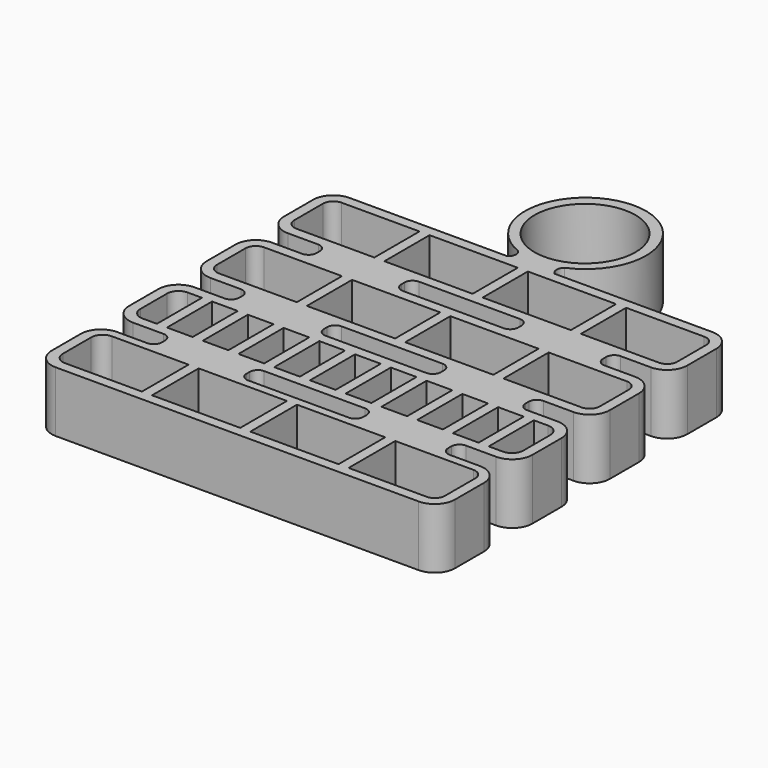
from build123d import *

# Parameters (mm, degrees)
PAD_DEPTH       = 15
SKETCH001_R     = 12.5
SKETCH001_W     = 21.875
SKETCH001_H     = 14.4596633146
SKETCH001_W_2   = 21.8750001493
SKETCH001_H_2   = 14.003631
SKETCH001_W_3   = 21.8698292402
SKETCH001_H_3   = 14.0029334024
SKETCH001_W_4   = 6.3643366819
SKETCH001_H_4   = 13.9871606597
POCKET_DEPTH    = 15.001
SKETCH002_W     = 20
SKETCH002_H     = 2.0403369997
SKETCH002_H_2   = 2.506032
POCKET001_DEPTH = 3


with BuildPart() as part:
    # Sketch → Pad (new body)
    with BuildSketch(Plane.XY):
        with BuildLine():
            Line((-50, 14.0000003144), (-50, 5))
            ThreePointArc((-50, 5), (-48.5355339059, 1.4644660941), (-45, 0))
            Line((-45, 0), (45, 0))
            ThreePointArc((45, 0), (48.5355339059, 1.4644660941), (50, 5))
            Line((50, 5), (50, 14))
            ThreePointArc((50, 14), (48.5355339059, 17.5355339059), (45, 19))
            Line((45, 19), (37.5, 19))
            ThreePointArc((35.5, 21), (36.0857864376, 19.5857864376), (37.5, 19))
            Line((35.5, 21), (35.5, 22))
            ThreePointArc((37.5, 24), (36.0857864376, 23.4142135624), (35.5, 22))
            Line((37.5, 24), (45, 24))
            ThreePointArc((45, 24), (48.5355339059, 25.4644660941), (50, 29))
            Line((50, 29), (50, 38))
            ThreePointArc((50, 38), (48.5355339059, 41.5355339059), (45, 43))
            Line((45, 43), (37.5, 43))
            ThreePointArc((35.5, 45), (36.0857864376, 43.5857864376), (37.5, 43))
            Line((35.5, 45), (35.5, 46))
            ThreePointArc((37.5, 48), (36.0857864376, 47.4142135624), (35.5, 46))
            Line((37.5, 48), (45, 48))
            ThreePointArc((45, 48), (48.5355339059, 49.4644660941), (50, 53))
            Line((50, 53), (50, 62))
            ThreePointArc((50, 62), (48.5355339059, 65.5355339059), (45, 67))
            Line((45, 67), (37.5, 67))
            ThreePointArc((35.5, 69), (36.0857864376, 67.5857864376), (37.5, 67))
            Line((35.5, 69), (35.5, 70))
            ThreePointArc((37.5, 72), (36.0857864376, 71.4142135624), (35.5, 70))
            Line((37.5, 72), (45, 72))
            ThreePointArc((45, 72), (48.5355339059, 73.4644660941), (50, 77))
            Line((50, 77), (50, 86))
            ThreePointArc((50, 86), (48.5355339059, 89.5355339059), (45, 91))
            Line((45, 91), (5.8692560091, 91))
            ThreePointArc((5.8472780237, 94.1591058983), (5.1418427518, 92.5745687661), (5.8692560091, 91))
            ThreePointArc((5.8472780237, 94.1591058983), (-0.1235255736, 122.9719726625), (-5.6189853126, 94.0646775793))
            ThreePointArc((-5.8228119759, 91.0319550623), (-4.9950585159, 92.4995332321), (-5.6189853126, 94.0646775793))
            Line((-5.8228119759, 91.0319550623), (-45, 91.0319550623))
            ThreePointArc((-45, 91.0319550623), (-48.5355339059, 89.5674889682), (-50, 86.0319550623))
            Line((-50, 86.0319550623), (-50, 77))
            ThreePointArc((-50, 77), (-48.5355339059, 73.4644660941), (-45, 72))
            Line((-45, 72), (-37.5, 72))
            ThreePointArc((-35.5, 70), (-36.0857864376, 71.4142135624), (-37.5, 72))
            Line((-35.5, 69), (-35.5, 70))
            ThreePointArc((-37.5, 67), (-36.0857864376, 67.5857864376), (-35.5, 69))
            Line((-37.5, 67), (-45, 67))
            ThreePointArc((-45, 67), (-48.5355339059, 65.5355339059), (-50, 62))
            Line((-50, 62), (-50, 53))
            ThreePointArc((-50, 53), (-48.5355339059, 49.4644660941), (-45, 48))
            Line((-45, 48), (-37.5, 48))
            ThreePointArc((-35.5, 46), (-36.0857864376, 47.4142135624), (-37.5, 48))
            Line((-35.5, 45.000000104), (-35.5, 46))
            ThreePointArc((-37.5, 43.000000104), (-36.0857864376, 43.5857865416), (-35.5, 45.000000104))
            Line((-37.5, 43.000000104), (-45, 43.000000104))
            ThreePointArc((-45, 43.000000104), (-48.5355339059, 41.5355340099), (-50, 38.000000104))
            Line((-50, 38.000000104), (-50, 29))
            ThreePointArc((-50, 29), (-48.5355339059, 25.4644660941), (-45, 24))
            Line((-45, 24), (-37.5, 24))
            ThreePointArc((-35.5, 22), (-36.0857864376, 23.4142135624), (-37.5, 24))
            Line((-35.5, 21.0000003144), (-35.5, 22))
            ThreePointArc((-37.5, 19.0000003144), (-36.0857864376, 19.585786752), (-35.5, 21.0000003144))
            Line((-37.5, 19.0000003144), (-45, 19.0000003144))
            ThreePointArc((-45, 19.0000003144), (-48.5355339059, 17.5355342203), (-50, 14.0000003144))
        make_face()
        with BuildLine():
            Line((-14.5, 21.0000003144), (-14.5, 22))
            ThreePointArc((-12.5, 24), (-13.9142135624, 23.4142135624), (-14.5, 22))
            Line((-12.5, 24), (12.5, 24))
            ThreePointArc((14.5, 22), (13.9142135624, 23.4142135624), (12.5, 24))
            Line((14.5, 21.0000003144), (14.5, 22))
            ThreePointArc((12.5, 19.0000003144), (13.9142135624, 19.585786752), (14.5, 21.0000003144))
            Line((12.5, 19.0000003144), (-12.5, 19.0000003144))
            ThreePointArc((-14.5, 21.0000003144), (-13.9142135624, 19.585786752), (-12.5, 19.0000003144))
        make_face(mode=Mode.SUBTRACT)
        with BuildLine():
            Line((-14.5, 44.9999993897), (-14.5, 46))
            ThreePointArc((-12.5, 48), (-13.9142135624, 47.4142135624), (-14.5, 46))
            Line((-12.5, 48), (12.5, 48))
            ThreePointArc((14.5, 46), (13.9142135624, 47.4142135624), (12.5, 48))
            Line((14.5, 44.9999993897), (14.5, 46))
            ThreePointArc((12.5, 42.9999993897), (13.9142135624, 43.5857858273), (14.5, 44.9999993897))
            Line((12.5, 42.9999993897), (-12.5, 42.9999993897))
            ThreePointArc((-14.5, 44.9999993897), (-13.9142135624, 43.5857858273), (-12.5, 42.9999993897))
        make_face(mode=Mode.SUBTRACT)
        with BuildLine():
            Line((-14.5, 69), (-14.5, 70))
            ThreePointArc((-12.5, 72), (-13.9142135624, 71.4142135624), (-14.5, 70))
            Line((-12.5, 72), (12.5, 72))
            ThreePointArc((14.5, 70), (13.9142135624, 71.4142135624), (12.5, 72))
            Line((14.5, 69), (14.5, 70))
            ThreePointArc((12.5, 67), (13.9142135624, 67.5857864376), (14.5, 69))
            Line((12.5, 67), (-12.5, 67))
            ThreePointArc((-14.5, 69), (-13.9142135624, 67.5857864376), (-12.5, 67))
        make_face(mode=Mode.SUBTRACT)
    extrude(amount=PAD_DEPTH)

    # Sketch001 → Pocket (cut, through all)
    with BuildSketch(Plane.XY):
        with Locations((0, 107.8096633146)):
            Circle(SKETCH001_R)
        with BuildLine():
            Line((-47.5, 14.1313318386), (-47.5, 5.328331476))
            ThreePointArc((-47.5, 5.328331476), (-46.6716008901, 3.3283991099), (-44.671668524, 2.5))
            Line((-44.671668524, 2.5), (-25.625, 2.5))
            Line((-25.625, 2.5), (-25.625, 16.9596633146))
            Line((-25.625, 16.9596633146), (-44.671668524, 16.9596633146))
            ThreePointArc((-44.671668524, 16.9596633146), (-46.6716008901, 16.1312642048), (-47.5, 14.1313318386))
        make_face()
        with Locations((-12.1875, 9.7298316573)):
            Rectangle(SKETCH001_W, SKETCH001_H)
        with Locations((12.1875, 9.7298316573)):
            Rectangle(SKETCH001_W, SKETCH001_H)
        with BuildLine():
            Line((25.625, 16.9596633146), (25.625, 2.5))
            Line((25.625, 2.5), (45, 2.5))
            ThreePointArc((45, 2.5), (46.767766953, 3.232233047), (47.5, 5))
            Line((47.5, 5), (47.5, 14.4596633146))
            ThreePointArc((47.5, 14.4596633146), (46.767766953, 16.2274302676), (45, 16.9596633146))
            Line((45, 16.9596633146), (25.625, 16.9596633146))
        make_face()
        with BuildLine():
            Line((-47.5000000503, 61.9440071112), (-47.5000000503, 53.0716871112))
            ThreePointArc((-47.5000000503, 53.0716871112), (-46.7485368387, 51.2574944341), (-44.9343441616, 50.5060312225))
            Line((-44.9343441616, 50.5060312225), (-25.6250003988, 50.5060312225))
            Line((-25.6250003988, 50.5060312225), (-25.6250003988, 64.509663))
            Line((-25.6250003988, 64.509663), (-44.9343441616, 64.509663))
            ThreePointArc((-44.9343441616, 64.509663), (-46.7485368387, 63.7581997884), (-47.5000000503, 61.9440071112))
        make_face()
        with Locations((-12.1875003242, 57.5078475)):
            Rectangle(SKETCH001_W_2, SKETCH001_H_2)
        with Locations((12.1874998251, 57.5078475)):
            Rectangle(SKETCH001_W_2, SKETCH001_H_2)
        with BuildLine():
            Line((25.6249998998, 64.509663), (25.6249998998, 50.506032))
            Line((25.6249998998, 50.506032), (45.000000049, 50.506032))
            ThreePointArc((45.000000049, 50.506032), (46.767767002, 51.238265047), (47.500000049, 53.006032))
            Line((47.500000049, 53.006032), (47.500000049, 62.009663))
            ThreePointArc((47.500000049, 62.009663), (46.767767002, 63.777429953), (45.000000049, 64.509663))
            Line((45.000000049, 64.509663), (25.6249998998, 64.509663))
        make_face()
        with BuildLine():
            Line((-47.4833619768, 85.9521198681), (-47.4833619768, 77.0711437188))
            ThreePointArc((-47.4833619768, 77.0711437188), (-46.7342748445, 75.2626874045), (-44.9258185302, 74.5136002722))
            Line((-44.9258185302, 74.5136002722), (-25.6091352663, 74.5136002722))
            Line((-25.6091352663, 74.5136002722), (-25.6091352663, 88.5096633146))
            Line((-25.6091352663, 88.5096633146), (-44.9258185302, 88.5096633146))
            ThreePointArc((-44.9258185302, 88.5096633146), (-46.7342748445, 87.7605761823), (-47.4833619768, 85.9521198681))
        make_face()
        with Locations((-12.1742206462, 81.5081966134)):
            Rectangle(SKETCH001_W_3, SKETCH001_H_3)
        with Locations((12.1956180343, 81.5081966134)):
            Rectangle(SKETCH001_W_3, SKETCH001_H_3)
        with BuildLine():
            Line((25.6305420948, 88.5096633146), (25.6305420948, 74.5067299122))
            Line((25.6305420948, 74.5067299122), (45.0003713349, 74.5067299122))
            ThreePointArc((45.0003713349, 74.5067299122), (46.7681382879, 75.2389629593), (47.5003713349, 77.0067299122))
            Line((47.5003713349, 77.0067299122), (47.5003713349, 86.0096633146))
            ThreePointArc((47.5003713349, 86.0096633146), (46.7681382879, 87.7774302676), (45.0003713349, 88.5096633146))
            Line((45.0003713349, 88.5096633146), (25.6305420948, 88.5096633146))
        make_face()
        with BuildLine():
            Line((-44.671668524, 40.477773697), (-41.1150734386, 40.477773697))
            Line((-41.1150734386, 40.477773697), (-41.1150734386, 26.5))
            Line((-41.1150734386, 26.5), (-44.671668524, 26.5))
            ThreePointArc((-47.5, 29.328331476), (-46.6716008901, 27.3283991099), (-44.671668524, 26.5))
            Line((-47.5, 29.328331476), (-47.5, 37.649442221))
            ThreePointArc((-44.671668524, 40.477773697), (-46.6716008901, 39.6493745872), (-47.5, 37.649442221))
        make_face()
        with Locations((-35.4329050977, 33.4935803298)):
            Rectangle(SKETCH001_W_4, SKETCH001_H_4)
        with Locations((-26.5685684158, 33.4935803298)):
            Rectangle(SKETCH001_W_4, SKETCH001_H_4)
        with Locations((-17.7042317339, 33.4935803298)):
            Rectangle(SKETCH001_W_4, SKETCH001_H_4)
        with Locations((-8.839895052, 33.4935803298)):
            Rectangle(SKETCH001_W_4, SKETCH001_H_4)
        with Locations((0.0244416299, 33.4935803298)):
            Rectangle(SKETCH001_W_4, SKETCH001_H_4)
        with Locations((8.8887783118, 33.4935803298)):
            Rectangle(SKETCH001_W_4, SKETCH001_H_4)
        with Locations((17.7531149937, 33.4935803298)):
            Rectangle(SKETCH001_W_4, SKETCH001_H_4)
        with Locations((26.6174516755, 33.4935803298)):
            Rectangle(SKETCH001_W_4, SKETCH001_H_4)
        with Locations((35.4817883574, 33.4935803298)):
            Rectangle(SKETCH001_W_4, SKETCH001_H_4)
        with BuildLine():
            Line((41.1639566984, 40.5), (44.671668524, 40.5))
            ThreePointArc((47.5, 37.671668524), (46.6716008901, 39.6716008901), (44.671668524, 40.5))
            Line((47.5, 37.671668524), (47.5, 29.328331476))
            ThreePointArc((44.671668524, 26.5), (46.6716008901, 27.3283991099), (47.5, 29.328331476))
            Line((44.671668524, 26.5), (41.1639566984, 26.5))
            Line((41.1639566984, 26.5), (41.1639566984, 40.5))
        make_face()
    extrude(amount=POCKET_DEPTH, mode=Mode.SUBTRACT)

    # Sketch002 → Pocket001 (cut)
    with BuildSketch(Plane.XY):
        with Locations((0, 17.9798318145)):
            Rectangle(SKETCH002_W, SKETCH002_H)
        with Locations((0, 49.253016)):
            Rectangle(SKETCH002_W, SKETCH002_H_2)
    extrude(amount=POCKET001_DEPTH, mode=Mode.SUBTRACT)


solid = part.part
